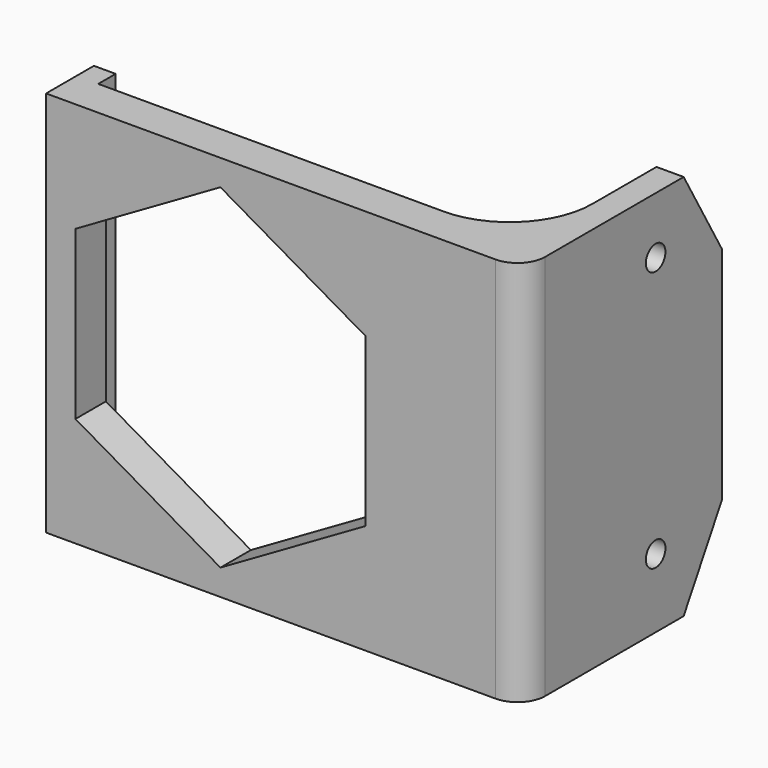
from build123d import *

# Parameters (mm, degrees)
F1_DEPTH = 35.56
F3_DEPTH = 7.001
F4_R     = 15.24
F5_R     = 5.08
F6_R     = 2.25
F7_DEPTH = 5.001
F8_SIZE2 = 8.7988181024
F8_SIZE  = 15.24


with BuildPart() as f1:
    # F0 (on Top) → F1 (new body, symmetric)
    with BuildSketch(Plane.XY):
        Polygon((0, 0), (-78.74, 0), (-78.74, 4), (-82.74, 4), (-82.74, -7), (5, -7), (5, 38.72), (0, 38.72), align=None)
    extrude(amount=F1_DEPTH, both=True)

    # F2 (on face) → F3 (cut, through all)
    with BuildSketch(Plane(origin=(0, 0, 0), x_dir=(-1, 0, 0), z_dir=(0, 1, 0))):
        Polygon((77.34, 15.3979316793), (50.67, 30.7958633586), (24, 15.3979316793), (24, -15.3979316793), (50.67, -30.7958633586), (77.34, -15.3979316793), align=None)
    extrude(amount=-F3_DEPTH, mode=Mode.SUBTRACT)

    # F4
    f4_edges = [f1.edges().sort_by_distance(p)[0] for p in [
        (0, 0, 0),
    ]]
    fillet(f4_edges, radius=F4_R)

    # F5
    f5_edges = [f1.edges().sort_by_distance(p)[0] for p in [
        (5, -7, 0),
    ]]
    fillet(f5_edges, radius=F5_R)

    # F6 (on face) → F7 (cut, through all)
    with BuildSketch(Plane(origin=(0, 0, 0), x_dir=(0, -1, 0), z_dir=(-1, 0, 0))):
        with Locations((-23.48, 25.11)):
            Circle(F6_R)
        with Locations((-23.48, -22.86)):
            Circle(F6_R)
    extrude(amount=-F7_DEPTH, mode=Mode.SUBTRACT)

    # F8
    f8_edges = [f1.edges().sort_by_distance(p)[0] for p in [
        (2.5, 38.72, 35.56),
        (2.5, 38.72, -35.56),
    ]]
    f8_side = f1.faces().sort_by_distance((2.5, 38.72, 0))[0]
    chamfer(f8_edges, length=F8_SIZE, length2=F8_SIZE2, reference=f8_side)


solid = f1.part
